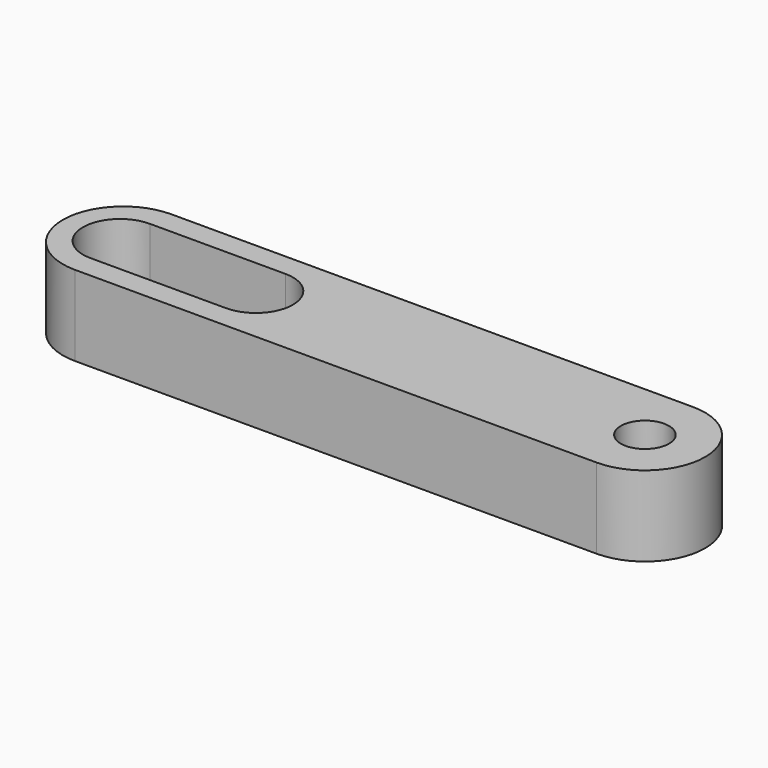
from build123d import *

# Parameters (mm, degrees)
F0_R     = 1.25
F1_DEPTH = 10
F3_R     = 3
F3_W     = 16.9056220651
F3_H     = 9.25
F4_DEPTH = 7


with BuildPart() as f1:
    # F0 (on Top) → F1 (new body)
    with BuildSketch(Plane.XY):
        with BuildLine():
            ThreePointArc((32.5, -7.5), (40, 0), (32.5, 7.5))
            Line((32.5, 7.5), (-32.5, 7.5))
            ThreePointArc((-32.5, 7.5), (-40, 0), (-32.5, -7.5))
            Line((-32.5, -7.5), (32.5, -7.5))
        make_face()
        with BuildLine():
            ThreePointArc((-17.4693779349, 1.625), (-15.8443779349, 0), (-17.4693779349, -1.625))
            Line((-17.4693779349, -1.625), (-31.375, -1.625))
            ThreePointArc((-31.375, -1.625), (-33, 0), (-31.375, 1.625))
            Line((-31.375, 1.625), (-17.4693779349, 1.625))
        make_face(mode=Mode.SUBTRACT)
        with Locations((32.5, 0)):
            Circle(F0_R, mode=Mode.SUBTRACT)
    extrude(amount=F1_DEPTH)

    # F3 (on offset) → F4 (cut)
    with BuildSketch(Plane.XY.offset(10)):
        with Locations((32.5, 0)):
            Circle(F3_R)
        with Locations((-24.4221889675, 0)):
            Rectangle(F3_W, F3_H)
        with BuildLine():
            Line((-32.875, -4.625), (-32.875, 4.625))
            ThreePointArc((-32.875, 4.625), (-37.5, 0), (-32.875, -4.625))
        make_face()
        with BuildLine():
            ThreePointArc((-15.9693779349, -4.625), (-11.3443779349, 0), (-15.9693779349, 4.625))
            Line((-15.9693779349, 4.625), (-15.9693779349, -4.625))
        make_face()
    extrude(amount=-F4_DEPTH, mode=Mode.SUBTRACT)


solid = f1.part
